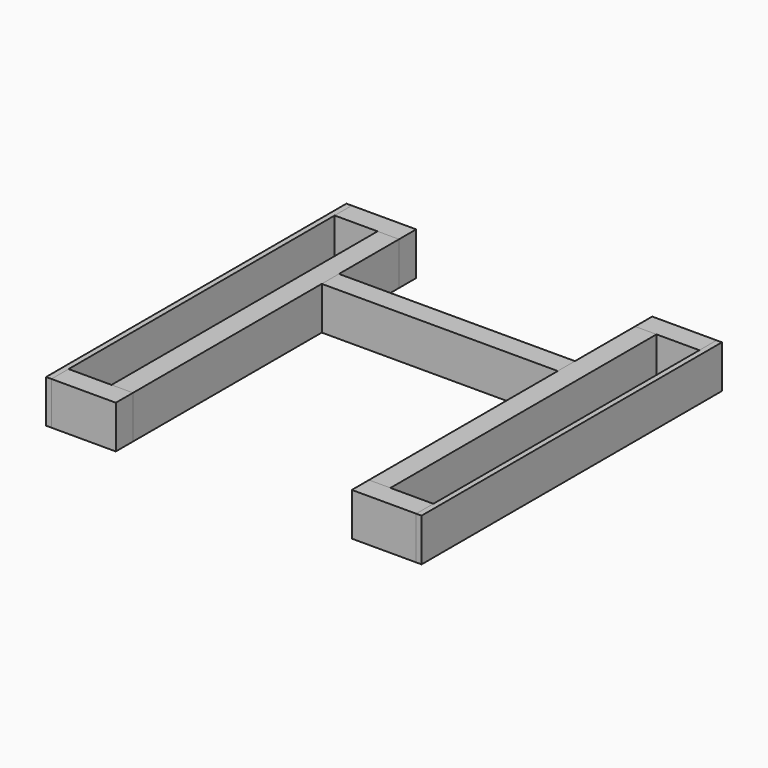
from build123d import *

# Parameters (mm, degrees)
F1_W     = 6.35
F1_H     = 50.8
F1_W_2   = 25.4
F2_DEPTH = 222.25
F0_W     = 76.2
F0_H     = 25.4
F3_DEPTH = 176.53
F4_W     = 76.2
F4_H     = 25.4
F4_W_2   = 279.4
F5_DEPTH = 50.8


with BuildPart() as f2:
    # F1 (on Front) → F2 (new body, symmetric)
    with BuildSketch(Plane.XZ):
        with Locations((-219.075, 63.5)):
            Rectangle(F1_W, F1_H)
        with Locations((219.075, 63.5)):
            Rectangle(F1_W, F1_H)
        with Locations((-152.4, 63.5)):
            Rectangle(F1_W_2, F1_H)
        with Locations((152.4, 63.5)):
            Rectangle(F1_W_2, F1_H)
    extrude(amount=F2_DEPTH, both=True)

    # F0 (on Top) → F3 (cut)
    with BuildSketch(Plane.XY):
        with Locations((-177.8, 209.55)):
            Rectangle(F0_W, F0_H)
        with Locations((177.8, 209.55)):
            Rectangle(F0_W, F0_H)
        with Locations((177.8, -209.55)):
            Rectangle(F0_W, F0_H)
        with Locations((-177.8, -209.55)):
            Rectangle(F0_W, F0_H)
    extrude(amount=F3_DEPTH, mode=Mode.SUBTRACT)


with BuildPart() as f5:
    # F4 (on face) → F5 (new body)
    with BuildSketch(Plane.XY.offset(88.9)):
        Polygon((-139.7, 222.25), (-215.9, 222.25), (-215.9, 196.85), (-165.1, 196.85), (-139.7, 196.85), align=None)
        Polygon((-139.7, -196.85), (-165.1, -196.85), (-215.9, -196.85), (-215.9, -222.25), (-139.7, -222.25), align=None)
        with Locations((177.8, -209.55)):
            Rectangle(F4_W, F4_H)
        with Locations((177.8, 209.55)):
            Rectangle(F4_W, F4_H)
        with Locations((0, 95.25)):
            Rectangle(F4_W_2, F4_H)
    extrude(amount=-F5_DEPTH)


solid = Compound([f2.part, f5.part])
